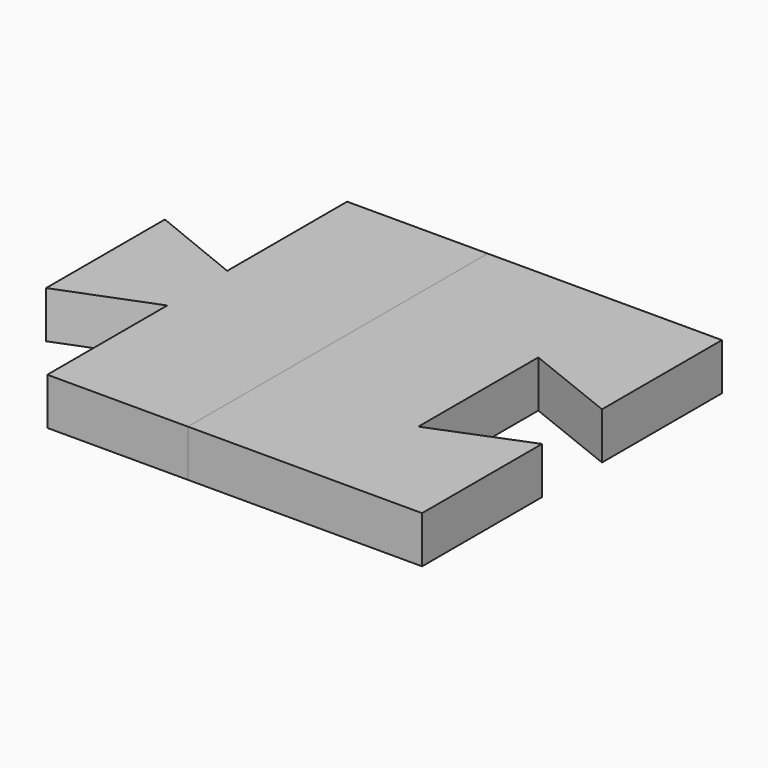
from build123d import *

# Parameters (mm, degrees)
PAD_DEPTH    = 10
PAD001_DEPTH = 10


with BuildPart() as body_socket:
    # Sketch → Pad (new body)
    with BuildSketch(Plane.XY):
        Polygon((0, 0), (50, 0), (50, -32), (30, -24), (30, -56), (50, -48), (50, -80), (0, -80), align=None)
    extrude(amount=PAD_DEPTH)


with BuildPart() as body_pin:
    # Sketch001 → Pad001 (new body)
    with BuildSketch(Plane.XY):
        Polygon((0, 0), (-30, 0), (-30, -32), (-49.7, -24), (-49.7, -55.7), (-30, -48), (-30, -80), (0, -80), align=None)
    extrude(amount=PAD001_DEPTH)


solid = Compound([body_socket.part, body_pin.part])
